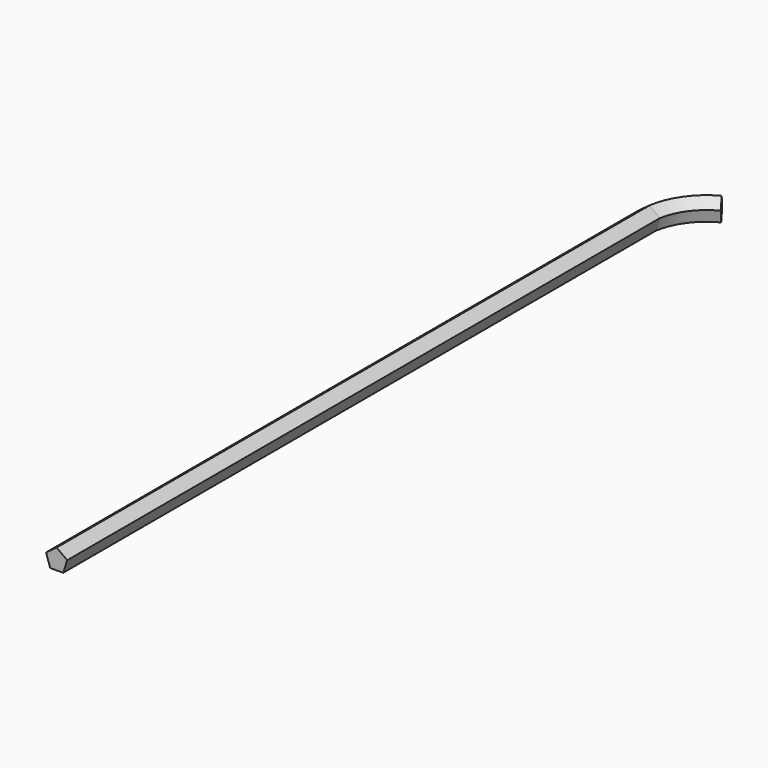
from build123d import *

# Parameters (mm, degrees)
F1_DEPTH = 150


with BuildPart() as f1:
    # F0 (on Front) → F1 (new body)
    with BuildSketch(Plane.XZ):
        Polygon((2.139877, 0.695288), (0, 2.25), (-2.139877, 0.695288), (-1.322517, -1.820288), (1.322517, -1.820288), align=None)
    extrude(amount=F1_DEPTH)

    # F3: sweep along a path in F2
    with BuildLine(Plane.XY) as f3_path:
        ThreePointArc((6.82874, 9.715454), (2.26372, 5.666489), (0, 0))
    # F1_face (on face) → F3 (sweep)
    with BuildSketch(Plane(origin=(0, 0, 0), x_dir=(1, 0, 0), z_dir=(0, 1, 0))):
        Polygon((0, -2.25), (2.139877, -0.695288), (1.322517, 1.820288), (-1.322517, 1.820288), (-2.139877, -0.695288), align=None)
    sweep(path=f3_path.line)


solid = f1.part
